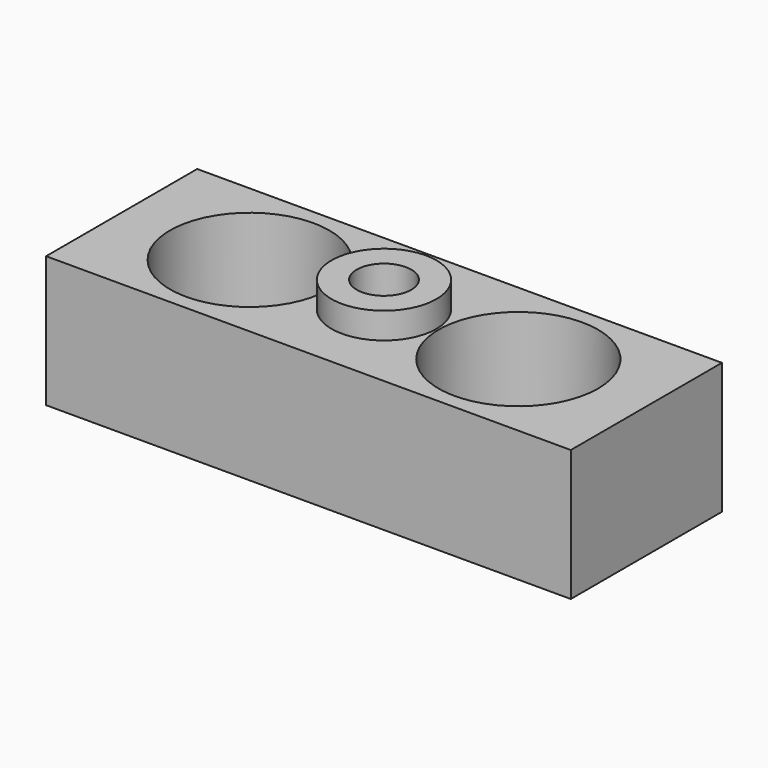
from build123d import *

# Parameters (mm, degrees)
F0_W     = 31.75
F0_H     = 11.43
F0_R     = 4.826
F1_DEPTH = 7.9375
F2_R     = 3.175
F3_DEPTH = 1.5875
F4_R     = 1.651
F5_DEPTH = 4.7625


with BuildPart() as f1:
    # F0 (on Top) → F1 (new body)
    with BuildSketch(Plane.XY):
        Rectangle(F0_W, F0_H)
        with Locations((-8.128, 0)):
            Circle(F0_R, mode=Mode.SUBTRACT)
        with Locations((8.128, 0)):
            Circle(F0_R, mode=Mode.SUBTRACT)
    extrude(amount=F1_DEPTH)

    # F2 (on face) → F3 (join)
    with BuildSketch(Plane.XY.offset(7.9375)):
        Circle(F2_R)
    extrude(amount=F3_DEPTH)

    # F4 (on face) → F5 (cut)
    with BuildSketch(Plane.XY.offset(9.525)):
        Circle(F4_R)
    extrude(amount=-F5_DEPTH, mode=Mode.SUBTRACT)


solid = f1.part
